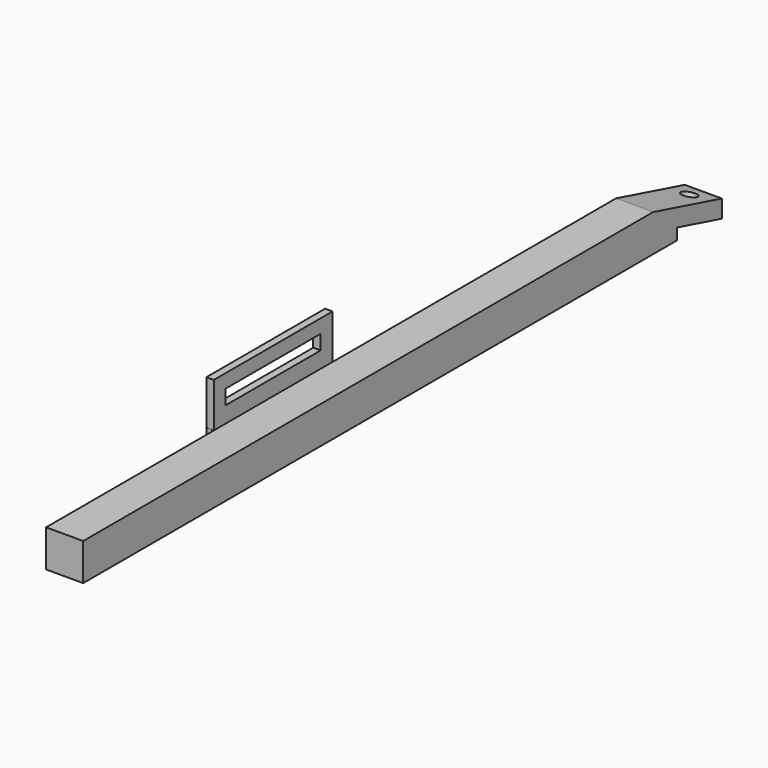
from build123d import *

# Parameters (mm, degrees)
F1_DEPTH = 25
F3_D     = 10
F4_W     = 100
F4_H     = 29.9654065818
F4_W_2   = 80
F4_H_2   = 9.8667964339
F5_DEPTH = 5
F4_H_3   = 25


with BuildPart() as f1:
    # F0 (on Right) → F1 (new body)
    with BuildSketch(Plane.YZ):
        Polygon((0, 25), (0, 0), (500, 0), (500, 7.6794919243), (537.9435295104, -2.487446166), (537.9555495773, 9.4708572938), (480, 25), align=None)
    extrude(amount=F1_DEPTH)

    # F3 (through all)
    with Locations(Plane(origin=(0, 38.4039030917, 143.3253175473), x_dir=(1, 0, 0), z_dir=(0, 0.2588190451, 0.9659258263))):
        with Locations((12.5, 504.8282497212)):
            Hole(F3_D / 2)

    # F4 (on face) → F5, piece 2 (join)
    with BuildSketch(Plane.YZ):
        with Locations((191.2442117929, 12.5)):
            Rectangle(F4_W, F4_H_3)
    extrude(amount=-F5_DEPTH)


with BuildPart() as f5:
    # F4 (on face) → F5 (new body)
    with BuildSketch(Plane.YZ):
        with Locations((191.2442117929, 40.0172967091)):
            Rectangle(F4_W, F4_H)
        with Locations((191.2442117929, 40.8562459052)):
            Rectangle(F4_W_2, F4_H_2, mode=Mode.SUBTRACT)
    extrude(amount=-F5_DEPTH)


solid = Compound([f1.part, f5.part])
